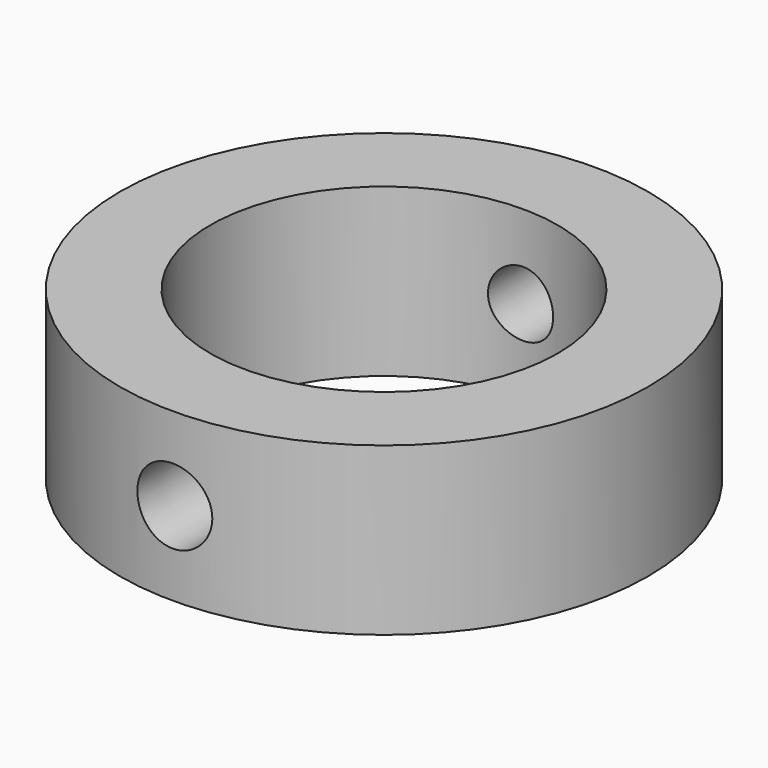
from build123d import *

# Parameters (mm, degrees)
F0_R     = 19
F0_R_2   = 12.5
F1_DEPTH = 12
F3_R     = 2.81
F5_R     = 2.155


with BuildPart() as f1:
    # F0 (on Top) → F1 (new body)
    with BuildSketch(Plane.XY):
        Circle(F0_R)
        Circle(F0_R_2, mode=Mode.SUBTRACT)
    extrude(amount=F1_DEPTH)

    # F3 (on offset) → F6 section 0
    with BuildSketch(Plane.XZ.offset(29)):
        with Locations((0, 6)):
            Circle(F3_R)
    # F5 (on offset) → F6 section 1
    with BuildSketch(Plane.XZ.offset(-29)):
        with Locations((0, 6)):
            Circle(F5_R)
    loft(mode=Mode.SUBTRACT)


solid = f1.part
